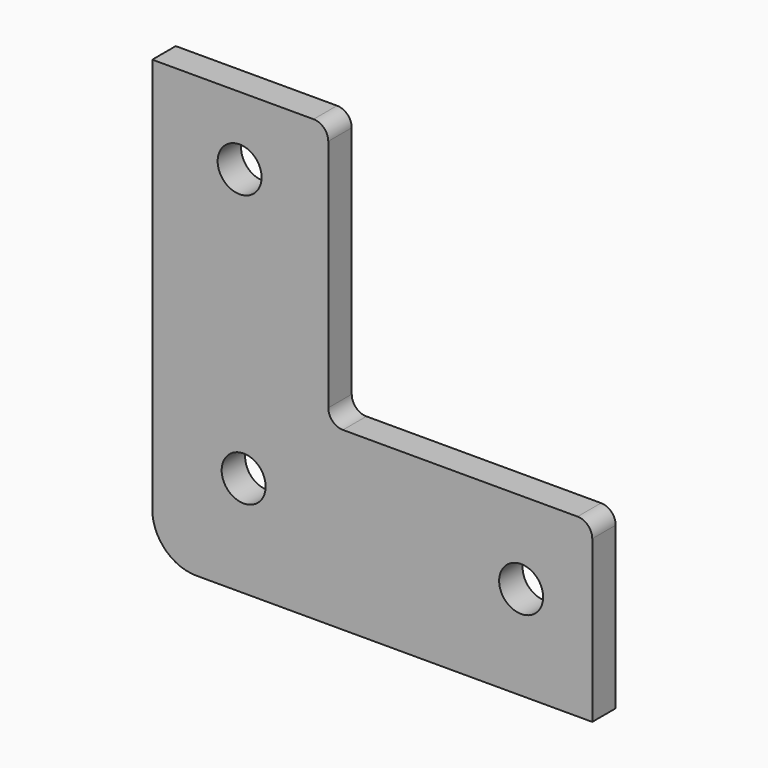
from build123d import *

# Parameters (mm, degrees)
F0_R     = 4.7625
F0_R_2   = 4.759241
F1_DEPTH = 6.35


with BuildPart() as f1:
    # F0 (on Front) → F1 (new body)
    with BuildSketch(Plane.XZ):
        with BuildLine():
            Line((-30.520967, 36.727578), (-65.445967, 36.727578))
            Line((-65.445967, 36.727578), (-65.445967, -48.997422))
            ThreePointArc((-65.445967, -48.997422), (-62.656159, -55.732614), (-55.920967, -58.522422))
            Line((-55.920967, -58.522422), (29.804033, -58.522422))
            Line((29.804033, -58.522422), (29.804033, -23.597422))
            ThreePointArc((29.804033, -23.597422), (28.874097, -21.352358), (26.629033, -20.422422))
            Line((26.629033, -20.422422), (-24.170967, -20.422422))
            ThreePointArc((-24.170967, -20.422422), (-26.416031, -19.492486), (-27.345967, -17.247422))
            Line((-27.345967, -17.247422), (-27.345967, 33.552578))
            ThreePointArc((-27.345967, 33.552578), (-28.275903, 35.797642), (-30.520967, 36.727578))
        make_face()
        with Locations((-45.662783, -36.663234)):
            Circle(F0_R, mode=Mode.SUBTRACT)
        with Locations((14.407904, -38.197886)):
            Circle(F0_R, mode=Mode.SUBTRACT)
        with Locations((-46.541065, 21.97274)):
            Circle(F0_R_2, mode=Mode.SUBTRACT)
    extrude(amount=F1_DEPTH)


solid = f1.part
